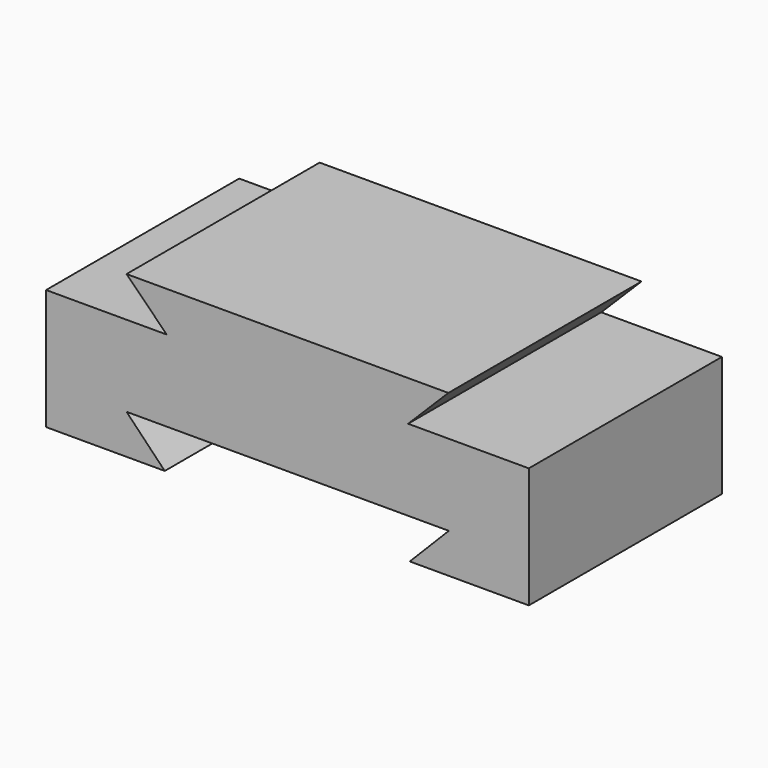
from build123d import *

# Parameters (mm, degrees)
F0_W      = 152.4
F0_H      = 76.2
F1_DEPTH  = 50.8
F2_W      = 25.4
F2_H      = 76.2
F3_DEPTH  = 12.7
F4_W      = 25.4
F4_H      = 76.2
F5_DEPTH  = 12.7
F7_DEPTH  = 76.201
F9_DEPTH  = 76.201
F12_DEPTH = 76.201


with BuildPart() as f1:
    # F0 (on Top) → F1 (new body)
    with BuildSketch(Plane.XY):
        Rectangle(F0_W, F0_H)
    extrude(amount=F1_DEPTH)

    # F2 (on face) → F3 (cut)
    with BuildSketch(Plane.XY.offset(50.8)):
        with Locations((63.5, 0)):
            Rectangle(F2_W, F2_H)
    extrude(amount=-F3_DEPTH, mode=Mode.SUBTRACT)

    # F4 (on face) → F5 (cut)
    with BuildSketch(Plane.XY.offset(50.8)):
        with Locations((-63.5, 0)):
            Rectangle(F4_W, F4_H)
    extrude(amount=-F5_DEPTH, mode=Mode.SUBTRACT)

    # F6 (on face) → F7 (cut, through all)
    with BuildSketch(Plane.XZ.offset(38.1)):
        Polygon((-50.8, 50.8), (-50.8, 38.1), (-38.1, 38.1), align=None)
    extrude(amount=-F7_DEPTH, mode=Mode.SUBTRACT)

    # F8 (on face) → F9 (cut, through all)
    with BuildSketch(Plane.XZ.offset(38.1)):
        Polygon((38.1, 38.1), (50.8, 38.1), (50.8, 50.8), align=None)
    extrude(amount=-F9_DEPTH, mode=Mode.SUBTRACT)

    # F11 (on face) → F12 (cut, through all)
    with BuildSketch(Plane.XZ.offset(38.1)):
        Polygon((-50.802752, 12.51767), (-38.731508, 0), (38.622994, 0), (50.940588, 12.51767), align=None)
    extrude(amount=-F12_DEPTH, mode=Mode.SUBTRACT)


solid = f1.part
